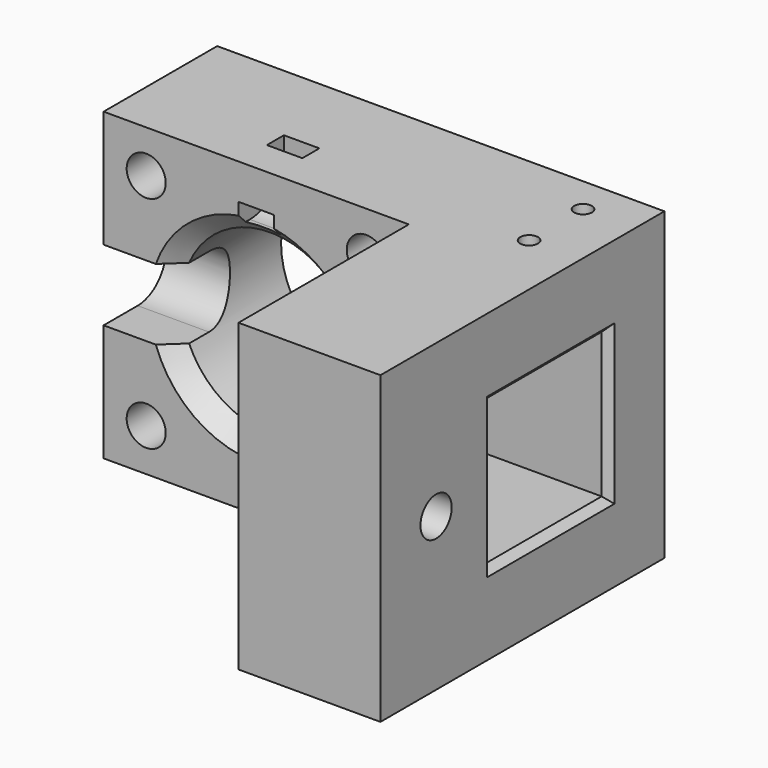
from build123d import *

# Parameters (mm, degrees)
PAD_DEPTH           = 43
HOLE_D              = 25
HOLE_CSINK_D        = 30
HOLE_CSINK_ANGLE    = 90
HOLE001_D           = 3.5
HOLE001_CBORE_D     = 5.5
HOLE001_CBORE_DEPTH = 15
SKETCH003_W         = 62.209956
SKETCH003_H         = 20.4
POCKET_DEPTH        = 5
POCKET_DEPTH_BACK   = 5
POCKET001_DEPTH     = 20
SKETCH005_W         = 20.4
SKETCH005_H         = 20.4
POCKET002_DEPTH     = 20
HOLE002_D           = 5.5
HOLE002_DEPTH       = 25
HOLE002_CBORE_D     = 9
HOLE002_CBORE_DEPTH = 15
CHAMFER_SIZE        = 1
SKETCH007_R         = 1.25
HOLE003_DEPTH       = 12
HOLE003_TIPS_R      = 1.25
POCKET003_DEPTH     = 2.5


with BuildPart() as part:
    # Sketch → Pad (new body)
    with BuildSketch(Plane.XY):
        Polygon((43, -20), (0, -20), (0, 0), (63, 0), (63, -50), (43, -50), align=None)
    extrude(amount=PAD_DEPTH)

    # Hole (through all)
    with Locations(Plane.XZ.offset(20)):
        with Locations((21.5, 21.5)):
            CounterSinkHole(HOLE_D / 2, HOLE_CSINK_D / 2, counter_sink_angle=HOLE_CSINK_ANGLE)

    # Hole001 (through all)
    with Locations(Plane.XZ.offset(20)):
        with Locations((6, 37), (37, 37), (37, 6), (6, 6)):
            CounterBoreHole(HOLE001_D / 2, HOLE001_CBORE_D / 2, HOLE001_CBORE_DEPTH)

    # Sketch003 (on Face1 of Hole001) → Pocket (cut, two sides)
    with BuildSketch(Plane.XZ.offset(20)) as pocket_sk:
        with Locations((54.005183, 21.5)):
            Rectangle(SKETCH003_W, SKETCH003_H)
    extrude(amount=-POCKET_DEPTH, mode=Mode.SUBTRACT)
    extrude(pocket_sk.sketch, amount=POCKET_DEPTH_BACK, mode=Mode.SUBTRACT)

    # Sketch004 (on Face3 of Pocket) → Pocket001 (cut)
    with BuildSketch(Plane(origin=(0, 0, 0), x_dir=(0, -1, 0), z_dir=(-1, 0, 0))):
        with BuildLine():
            ThreePointArc((14, 26.5), (9, 21.5), (14, 16.5))
            Line((20, 16.5), (14, 16.5))
            Line((20, 26.5), (20, 16.5))
            Line((14, 26.5), (20, 26.5))
        make_face()
    extrude(amount=-POCKET001_DEPTH, mode=Mode.SUBTRACT)

    # Sketch005 (on Face11 of Pocket001) → Pocket002 (cut)
    with BuildSketch(Plane.YZ.offset(63)):
        with Locations((-20, 21.5)):
            Rectangle(SKETCH005_W, SKETCH005_H)
    extrude(amount=-POCKET002_DEPTH, mode=Mode.SUBTRACT)

    # Hole002
    with Locations(Plane(origin=(43, 0, 0), x_dir=(0, -1, 0), z_dir=(-1, 0, 0))):
        with Locations((40.2, 21.5)):
            CounterBoreHole(HOLE002_D / 2, HOLE002_CBORE_D / 2, HOLE002_CBORE_DEPTH, depth=HOLE002_DEPTH)

    # Chamfer
    chamfer_edges = [part.edges().sort_by_distance(p)[0] for p in [
        (63, -27.6, 31.7),
        (63, -30.2, 21.5),
        (63, -20, 31.7),
        (63, -12.4, 31.7),
        (63, -9.8, 21.5),
        (63, -12.4, 11.3),
        (63, -20, 11.3),
        (63, -27.6, 11.3),
    ]]
    chamfer(chamfer_edges, length=CHAMFER_SIZE)

    # Sketch007 (on Face12 of Chamfer) → Hole003 (cut)
    with BuildSketch(Plane.XY.offset(43)):
        with Locations((55.7, -5.2)):
            Circle(SKETCH007_R)
        with Locations((55.7, -14.7)):
            Circle(SKETCH007_R)
    extrude(amount=-HOLE003_DEPTH, mode=Mode.SUBTRACT)

    # Hole003 tips → Hole003 tip 1 section 0
    with BuildSketch(Plane.XY.offset(31), mode=Mode.PRIVATE) as hole003_tip_1_s0:
        with Locations((55.7, -5.2)):
            Circle(HOLE003_TIPS_R)
    loft([hole003_tip_1_s0.sketch, Vertex(55.7, -5.2, 30.248924)], mode=Mode.SUBTRACT)

    # Hole003 tips → Hole003 tip 2 section 0
    with BuildSketch(Plane.XY.offset(31), mode=Mode.PRIVATE) as hole003_tip_2_s0:
        with Locations((55.7, -14.7)):
            Circle(HOLE003_TIPS_R)
    loft([hole003_tip_2_s0.sketch, Vertex(55.7, -14.7, 30.248924)], mode=Mode.SUBTRACT)

    # Sketch008 → Pocket003 (cut, symmetric)
    with BuildSketch(Plane.YZ.offset(21.5)):
        with BuildLine():
            ThreePointArc((-18, 35), (-13.757359, 36.757359), (-12, 41))
            Line((-12, 43), (-12, 41))
            Line((-12, 43), (-15, 43))
            Line((-15, 43), (-15, 41))
            ThreePointArc((-18, 38), (-15.87868, 38.87868), (-15, 41))
            Line((-18, 38), (-20, 38))
            Line((-20, 35), (-20, 38))
            Line((-18, 35), (-20, 35))
        make_face()
    extrude(amount=POCKET003_DEPTH, both=True, mode=Mode.SUBTRACT)


solid = part.part
